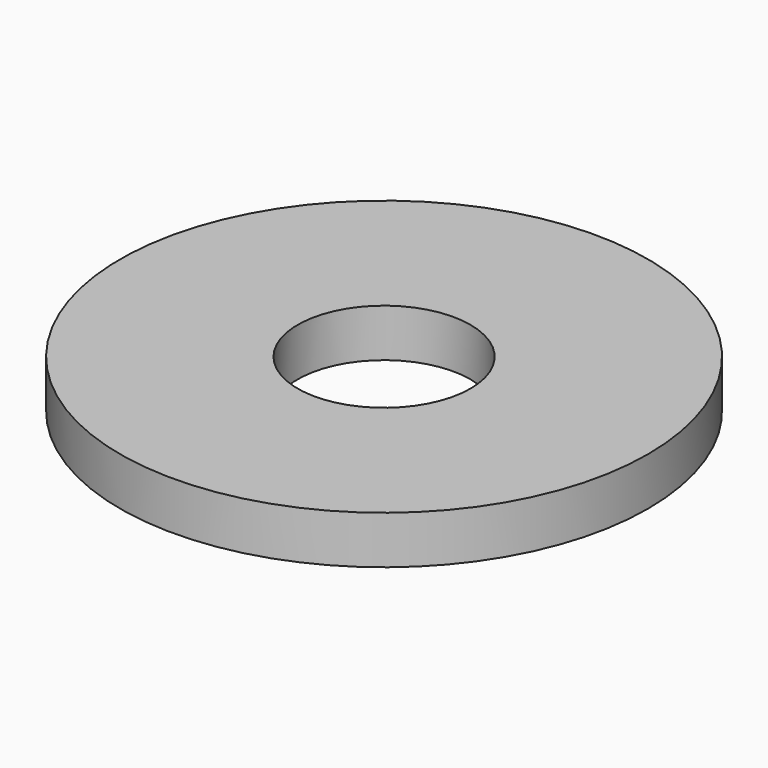
from build123d import *

# Parameters (mm, degrees)
CYLINDER011_R     = 1.8
CYLINDER011_DEPTH = 5
CYLINDER010_R     = 5.5
CYLINDER010_DEPTH = 1


with BuildPart() as obj1:
    # Cylinder011 → Cylinder011 (new body)
    with BuildSketch(Plane(origin=(-29.1, 53.1, 24.6), x_dir=(1, 0, 0), z_dir=(0, 0, 1))):
        Circle(CYLINDER011_R)
    extrude(amount=CYLINDER011_DEPTH)


with BuildPart() as arandela_1mm:
    # Cylinder010 → Cylinder010 (new body)
    with BuildSketch(Plane(origin=(-29.1, 53.1, 25.2), x_dir=(1, 0, 0), z_dir=(0, 0, 1))):
        Circle(CYLINDER010_R)
    extrude(amount=CYLINDER010_DEPTH)

    # Cut005: cut obj1
    add(obj1.part, mode=Mode.SUBTRACT)


with BuildPart() as arandela_1mm_1:
    # Cut005 placement: moved
    add(arandela_1mm.part.moved(Location((0, 0, -5.7))))


solid = arandela_1mm_1.part
